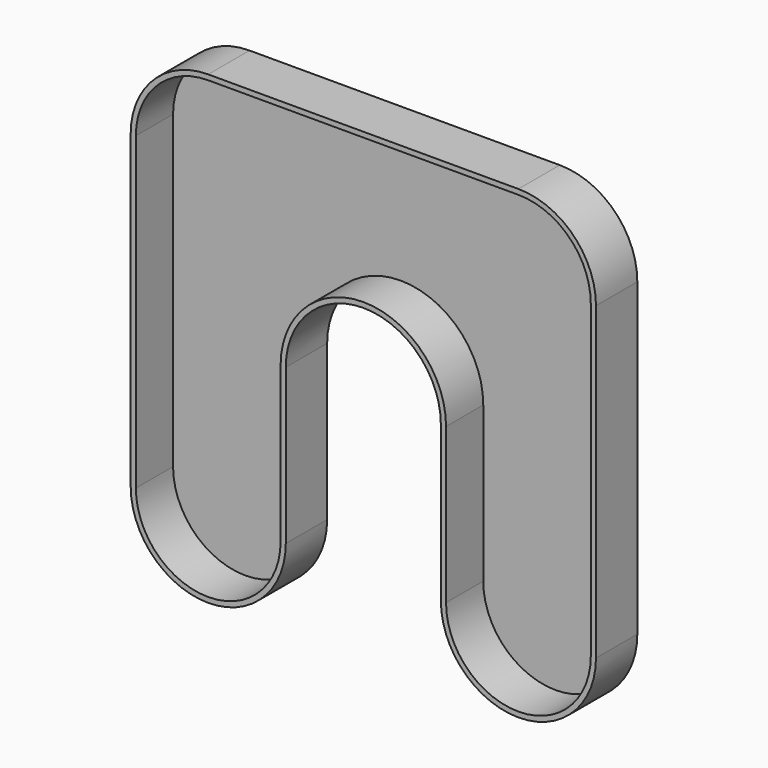
from build123d import *

# Parameters (mm, degrees)
F1_DEPTH = 10
F2_T     = -1


with BuildPart() as f1:
    # F0 (on Front) → F1 (new body)
    with BuildSketch(Plane.XZ):
        with BuildLine():
            Line((30, 45), (-30, 45))
            ThreePointArc((-30, 45), (-40.606602, 40.606602), (-45, 30))
            Line((-45, 30), (-45, -30))
            ThreePointArc((-45, -30), (-30, -45), (-15, -30))
            Line((-15, -30), (-15, 0))
            ThreePointArc((-15, 0), (0, 15), (15, 0))
            Line((15, 0), (15, -30))
            ThreePointArc((15, -30), (30, -45), (45, -30))
            Line((45, -30), (45, 30))
            ThreePointArc((45, 30), (40.606602, 40.606602), (30, 45))
        make_face()
    extrude(amount=F1_DEPTH)

    # F2
    f2_openings = [f1.faces().sort_by_distance(p)[0] for p in [
        (0, -10, 43.727208),
    ]]
    offset(amount=F2_T, openings=f2_openings)


solid = f1.part
